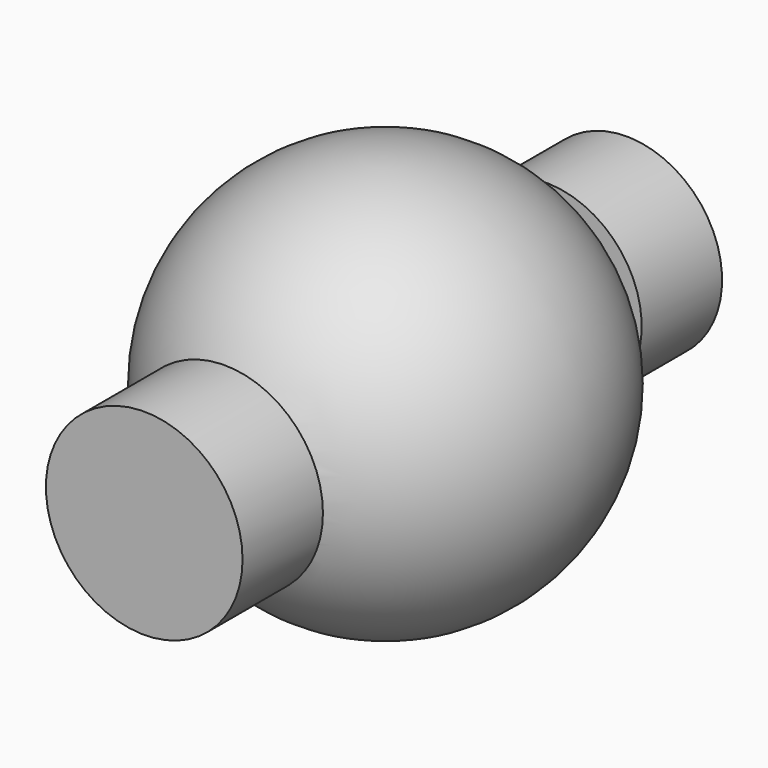
from build123d import *

# Parameters (mm, degrees)
F2_R     = 4.7625
F3_DEPTH = 63.5
F4_R     = 4.1275
F5_DEPTH = 19.05
F6_R     = 6.212632
F6_R_2   = 4.1275
F7_DEPTH = 6.35
F8_R     = 6.033985
F9_DEPTH = 6.35


with BuildPart() as f1:
    # F0 (on Front) → F1 (revolve)
    with BuildSketch(Plane.XZ):
        with BuildLine():
            Line((0, 12.7), (0, -12.7))
            ThreePointArc((0, -12.7), (12.7, 0), (0, 12.7))
        make_face()
    revolve(axis=Axis((0, 0, 0), (0, 0, -1)))

    # F2 (on Front) → F3 (cut, symmetric)
    with BuildSketch(Plane.XZ):
        Circle(F2_R)
    extrude(amount=F3_DEPTH, both=True, mode=Mode.SUBTRACT)


with BuildPart() as f5:
    # F4 (on Front) → F5 (new body, symmetric)
    with BuildSketch(Plane.XZ):
        Circle(F4_R)
    extrude(amount=F5_DEPTH, both=True)

    # F6 (on face) → F7 (join)
    with BuildSketch(Plane.XZ.offset(19.05)):
        Circle(F6_R)
        Circle(F6_R_2, mode=Mode.SUBTRACT)
    extrude(amount=-F7_DEPTH)

    # F8 (on face) → F9 (join)
    with BuildSketch(Plane(origin=(0, 19.05, 0), x_dir=(-1, 0, 0), z_dir=(0, 1, 0))):
        Circle(F8_R)
    extrude(amount=-F9_DEPTH)


solid = Compound([f1.part, f5.part])
